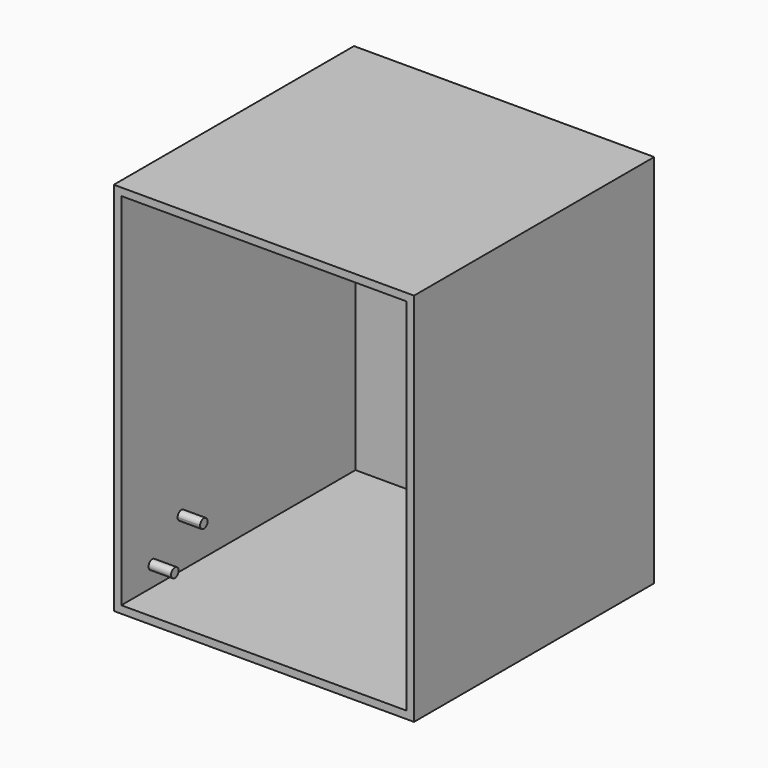
from build123d import *

# Parameters (mm, degrees)
F0_W      = 101.6
F0_H      = 101.6
F1_DEPTH  = 127
F2_T      = -2.54
F4_R      = 1.5875
F5_DEPTH  = 7.62
F11_DEPTH = 10.16


with BuildPart() as f1:
    # F0 (on Top) → F1 (new body)
    with BuildSketch(Plane.XY):
        Rectangle(F0_W, F0_H)
    extrude(amount=F1_DEPTH)

    # F2
    f2_openings = [f1.faces().sort_by_distance(p)[0] for p in [
        (0, -50.8, 63.5),
    ]]
    offset(amount=F2_T, openings=f2_openings)

    # F4 (on face) → F5 (join)
    with BuildSketch(Plane(origin=(48.26, 0, 0), x_dir=(0, -1, 0), z_dir=(-1, 0, 0))):
        with Locations((37.686419, 9.374908)):
            Circle(F4_R)
    extrude(amount=F5_DEPTH)

    # F7: F1 across plane


with BuildPart() as f1_1:
    add(f1.part)
    add(f1.part.mirror(Plane.YZ))

    # F8: F1 across plane


with BuildPart() as f1_2:
    add(f1_1.part)
    add(f1_1.part.mirror(Plane.YZ))

    # F10 (on face) → F11 (join)
    with BuildSketch(Plane(origin=(-50.8, 0, 0), x_dir=(0, -1, 0), z_dir=(-1, 0, 0))):
        with BuildLine():
            ThreePointArc((25.4, 17.4625), (26.522532, 17.927468), (26.9875, 19.05))
            ThreePointArc((26.9875, 19.05), (24.277468, 20.172532), (25.4, 17.4625))
        make_face()
    extrude(amount=-F11_DEPTH)

    # F12: F1 across plane


with BuildPart() as f1_3:
    add(f1_2.part)
    add(f1_2.part.mirror(Plane.YZ))


solid = f1_3.part
